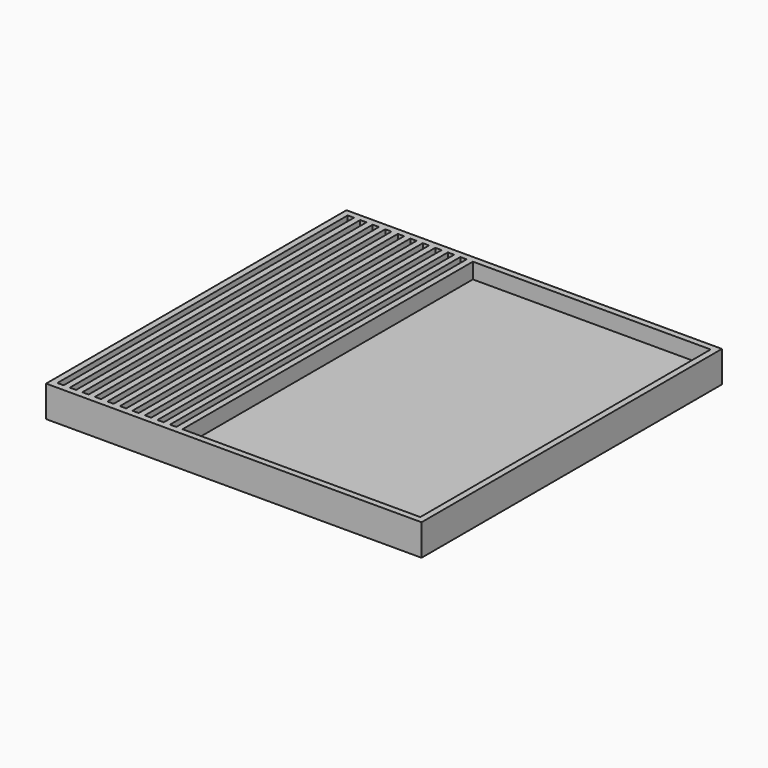
from build123d import *

# Parameters (mm, degrees)
F0_W     = 60
F0_H     = 60
F1_DEPTH = 5
F2_W     = 58
F2_H     = 58
F3_DEPTH = 2.5
F4_W     = 1
F4_H     = 58
F5_DEPTH = 2.5


with BuildPart() as f1:
    # F0 (on Top) → F1 (new body)
    with BuildSketch(Plane.XY):
        with Locations((30, 30)):
            Rectangle(F0_W, F0_H)
    extrude(amount=F1_DEPTH)

    # F2 (on face) → F3 (cut)
    with BuildSketch(Plane.XY.offset(5)):
        with Locations((30, 30)):
            Rectangle(F2_W, F2_H)
    extrude(amount=-F3_DEPTH, mode=Mode.SUBTRACT)

    # F4 (on face) → F5 (join)
    with BuildSketch(Plane.XY.offset(2.5)):
        with Locations((2.5, 30)):
            Rectangle(F4_W, F4_H)
        with Locations((4.5, 30)):
            Rectangle(F4_W, F4_H)
        with Locations((6.5, 30)):
            Rectangle(F4_W, F4_H)
        with Locations((8.5, 30)):
            Rectangle(F4_W, F4_H)
        with Locations((10.5, 30)):
            Rectangle(F4_W, F4_H)
        with Locations((12.5, 30)):
            Rectangle(F4_W, F4_H)
        with Locations((14.5, 30)):
            Rectangle(F4_W, F4_H)
        with Locations((16.5, 30)):
            Rectangle(F4_W, F4_H)
        with Locations((18.5, 30)):
            Rectangle(F4_W, F4_H)
        with Locations((20.5, 30)):
            Rectangle(F4_W, F4_H)
    extrude(amount=F5_DEPTH)


solid = f1.part
